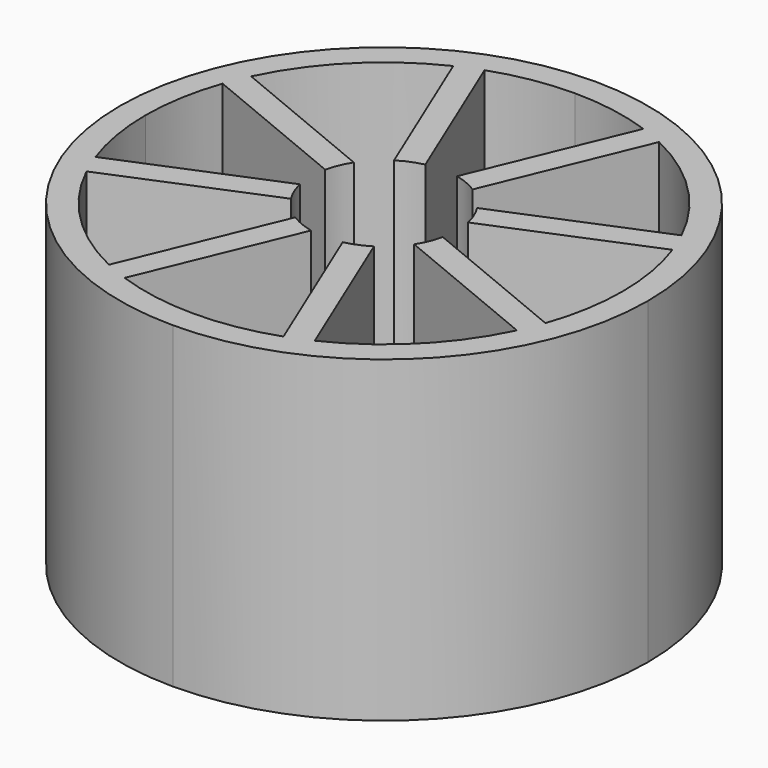
from build123d import *

# Parameters (mm, degrees)
F1_DEPTH = 10


with BuildPart() as f1:
    # F0 (on Top) → F1 (new body)
    with BuildSketch(Plane.XY):
        with BuildLine():
            ThreePointArc((8.3, 0), (5.868986, 5.868986), (0, 8.3))
            ThreePointArc((0, 8.3), (-5.868986, 5.868986), (-8.3, 0))
            ThreePointArc((-8.3, 0), (-5.868986, -5.868986), (0, -8.3))
            ThreePointArc((0, -8.3), (5.868986, -5.868986), (8.3, 0))
        make_face()
        with BuildLine():
            ThreePointArc((-2.496489, 7.072308), (-1.26643, 7.392304), (0, 7.5))
            ThreePointArc((0, 7.5), (1.26643, 7.392304), (2.496489, 7.072308))
            Line((2.496489, 7.072308), (0.497207, 2.245615))
            ThreePointArc((0.497207, 2.245615), (0.880172, 2.124923), (1.236311, 1.939468))
            Line((1.236311, 1.939468), (3.235593, 6.766161))
            ThreePointArc((3.235593, 6.766161), (5.303301, 5.303301), (6.766161, 3.235593))
            Line((6.766161, 3.235593), (1.939468, 1.236311))
            ThreePointArc((1.939468, 1.236311), (2.124923, 0.880172), (2.245615, 0.497207))
            Line((2.245615, 0.497207), (7.072308, 2.496489))
            ThreePointArc((7.072308, 2.496489), (7.392304, 1.26643), (7.5, 0))
            ThreePointArc((7.5, 0), (7.392304, -1.26643), (7.072308, -2.496489))
            Line((7.072308, -2.496489), (2.245615, -0.497207))
            ThreePointArc((2.245615, -0.497207), (2.124923, -0.880172), (1.939468, -1.236311))
            Line((1.939468, -1.236311), (6.766161, -3.235593))
            ThreePointArc((6.766161, -3.235593), (5.303301, -5.303301), (3.235593, -6.766161))
            Line((3.235593, -6.766161), (1.236311, -1.939468))
            ThreePointArc((1.236311, -1.939468), (0.880172, -2.124923), (0.497207, -2.245615))
            Line((0.497207, -2.245615), (2.496489, -7.072308))
            ThreePointArc((2.496489, -7.072308), (1.26643, -7.392304), (0, -7.5))
            ThreePointArc((0, -7.5), (-1.26643, -7.392304), (-2.496489, -7.072308))
            Line((-2.496489, -7.072308), (-0.497207, -2.245615))
            ThreePointArc((-0.497207, -2.245615), (-0.880172, -2.124923), (-1.236311, -1.939468))
            Line((-1.236311, -1.939468), (-3.235593, -6.766161))
            ThreePointArc((-3.235593, -6.766161), (-5.303301, -5.303301), (-6.766161, -3.235593))
            Line((-6.766161, -3.235593), (-1.939468, -1.236311))
            ThreePointArc((-1.939468, -1.236311), (-2.124923, -0.880172), (-2.245615, -0.497207))
            Line((-2.245615, -0.497207), (-7.072308, -2.496489))
            ThreePointArc((-7.072308, -2.496489), (-7.392304, -1.26643), (-7.5, 0))
            ThreePointArc((-7.5, 0), (-7.392304, 1.26643), (-7.072308, 2.496489))
            Line((-7.072308, 2.496489), (-2.245615, 0.497207))
            ThreePointArc((-2.245615, 0.497207), (-2.124923, 0.880172), (-1.939468, 1.236311))
            Line((-1.939468, 1.236311), (-6.766161, 3.235593))
            ThreePointArc((-6.766161, 3.235593), (-5.303301, 5.303301), (-3.235593, 6.766161))
            Line((-3.235593, 6.766161), (-1.236311, 1.939468))
            ThreePointArc((-1.236311, 1.939468), (-0.880172, 2.124923), (-0.497207, 2.245615))
            Line((-0.497207, 2.245615), (-2.496489, 7.072308))
        make_face(mode=Mode.SUBTRACT)
    extrude(amount=F1_DEPTH)


solid = f1.part
